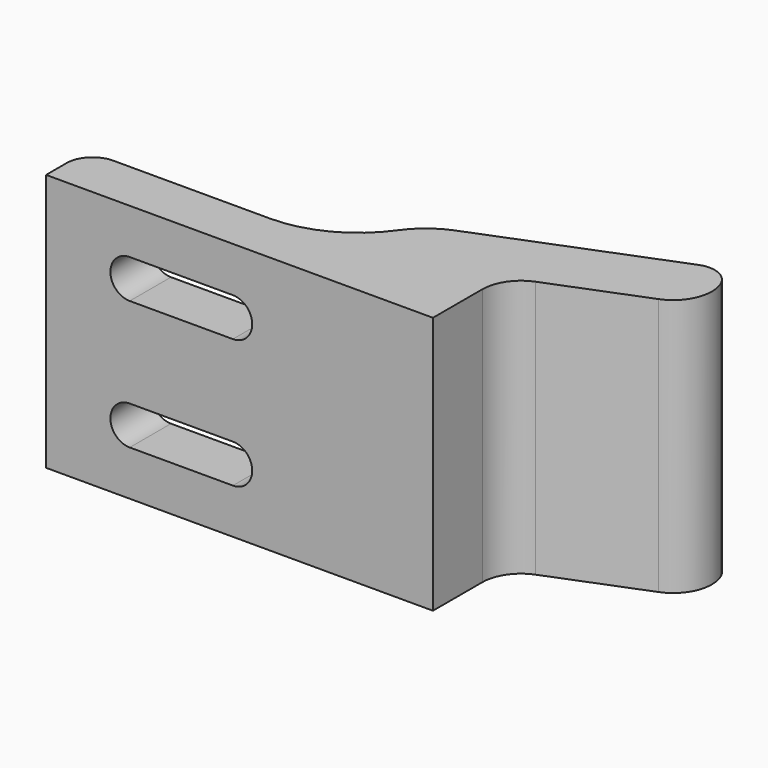
from build123d import *

# Parameters (mm, degrees)
F2_DEPTH = 10
F4_DEPTH = 25
F6_DEPTH = 25


with BuildPart() as f2:
    # F1 (on Top) → F2 (new body, symmetric)
    with BuildSketch(Plane.XY):
        with BuildLine():
            Line((-41.03757, 2), (-41.03757, 0))
            Line((-41.03757, 0), (-11.03757, 0))
            Line((-11.03757, 0), (-11.03757, 4.786366))
            ThreePointArc((-11.03757, 4.786366), (-10.519333, 6.471849), (-9.143667, 7.575012))
            Line((-9.143667, 7.575012), (-1.893904, 10.450577))
            ThreePointArc((-1.893904, 10.450577), (-0.246001, 12.049481), (-0.211353, 14.34532))
            ThreePointArc((-0.211353, 14.34532), (-1.277289, 15.443922), (-2.807848, 15.467021))
            Line((-2.807848, 15.467021), (-17.169758, 9.770475))
            ThreePointArc((-17.169758, 9.770475), (-18.673587, 8.903934), (-19.866468, 7.643207))
            ThreePointArc((-19.866468, 7.643207), (-22.928298, 4.965132), (-26.879931, 4))
            Line((-26.879931, 4), (-39.03757, 4))
            ThreePointArc((-39.03757, 4), (-40.451784, 3.414214), (-41.03757, 2))
        make_face()
    extrude(amount=F2_DEPTH, both=True)

    # F3 (on Front) → F4 (cut)
    with BuildSketch(Plane.XZ):
        with BuildLine():
            ThreePointArc((-34.551002, 6.5), (-36.051002, 5), (-34.551002, 3.5))
            Line((-34.551002, 3.5), (-26.551002, 3.5))
            ThreePointArc((-26.551002, 3.5), (-25.051002, 5), (-26.551002, 6.5))
            Line((-26.551002, 6.5), (-34.551002, 6.5))
        make_face()
        with BuildLine():
            ThreePointArc((-34.551002, -3.5), (-36.051002, -5), (-34.551002, -6.5))
            Line((-34.551002, -6.5), (-26.551002, -6.5))
            ThreePointArc((-26.551002, -6.5), (-25.051002, -5), (-26.551002, -3.5))
            Line((-26.551002, -3.5), (-34.551002, -3.5))
        make_face()
    extrude(amount=-F4_DEPTH, mode=Mode.SUBTRACT)

    # F5 (on face) → F6 (cut)
    with BuildSketch(Plane(origin=(0, 4, 0), x_dir=(-1, 0, 0), z_dir=(0, 1, 0))):
        with BuildLine():
            Line((30.551002, -2), (26.551002, -2))
            ThreePointArc((26.551002, -2), (23.551002, -5), (26.551002, -8))
            Line((26.551002, -8), (30.551002, -8))
            Line((30.551002, -8), (30.551002, -2))
        make_face()
        with BuildLine():
            Line((30.551002, 8), (26.551002, 8))
            ThreePointArc((26.551002, 8), (23.551002, 5), (26.551002, 2))
            Line((26.551002, 2), (30.551002, 2))
            Line((30.551002, 2), (30.551002, 8))
        make_face()
    extrude(amount=F6_DEPTH, mode=Mode.SUBTRACT)


solid = f2.part
